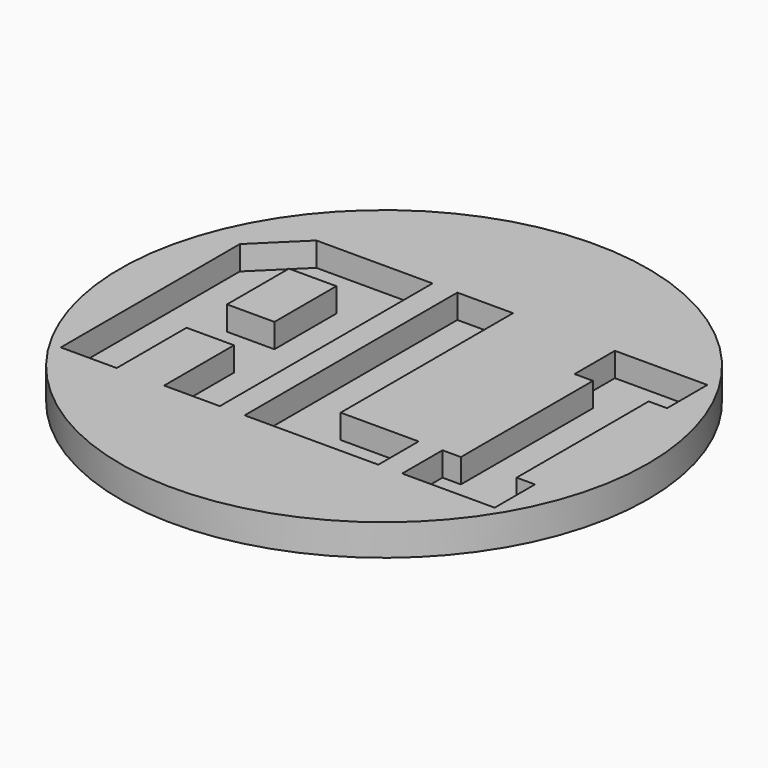
from build123d import *

# Parameters (mm, degrees)
F0_R     = 4.09
F1_DEPTH = 2.6
F2_R     = 5.5
F3_DEPTH = 0.7
F4_R     = 10.95
F5_DEPTH = 1.3
F6_W     = 1.967797
F6_H     = 3.211017
F7_DEPTH = 1


with BuildPart() as f1:
    # F0 (on Top) → F1 (new body)
    with BuildSketch(Plane.XY):
        Circle(F0_R)
    extrude(amount=F1_DEPTH)

    # F2 (on face) → F3 (join)
    with BuildSketch(Plane.XY.offset(2.6)):
        Circle(F2_R)
    extrude(amount=F3_DEPTH)

    # F4 (on face) → F5 (join)
    with BuildSketch(Plane.XY.offset(3.3)):
        Circle(F4_R)
    extrude(amount=F5_DEPTH)

    # F6 (on face) → F7 (cut)
    with BuildSketch(Plane.XY.offset(4.6)):
        Polygon((-9.000013, -5.514394), (-6.681369, -5.514394), (-6.681369, -1.891513), (-4.713572, -1.891513), (-4.713572, -5.514394), (-2.402555, -5.514394), (-2.402555, 5.514419), (-7.222894, 5.514419), (-9.000013, 3.767809), align=None)
        with Locations((-5.69747, 1.811453)):
            Rectangle(F6_W, F6_H, mode=Mode.SUBTRACT)
        Polygon((-1.372894, 5.514419), (-1.372894, -5.514394), (4.172021, -5.514394), (4.172021, -3.424564), (0.938123, -3.424564), (0.938123, 5.514419), align=None)
        Polygon((8.999987, -5.514394), (8.999987, -3.424564), (8.237275, -3.424564), (8.237275, 3.424589), (8.999987, 3.424589), (8.999987, 5.514419), (5.163547, 5.514419), (5.163547, 3.424589), (5.926259, 3.424589), (5.926259, -3.424564), (5.163547, -3.424564), (5.163547, -5.514394), align=None)
    extrude(amount=-F7_DEPTH, mode=Mode.SUBTRACT)


solid = f1.part
